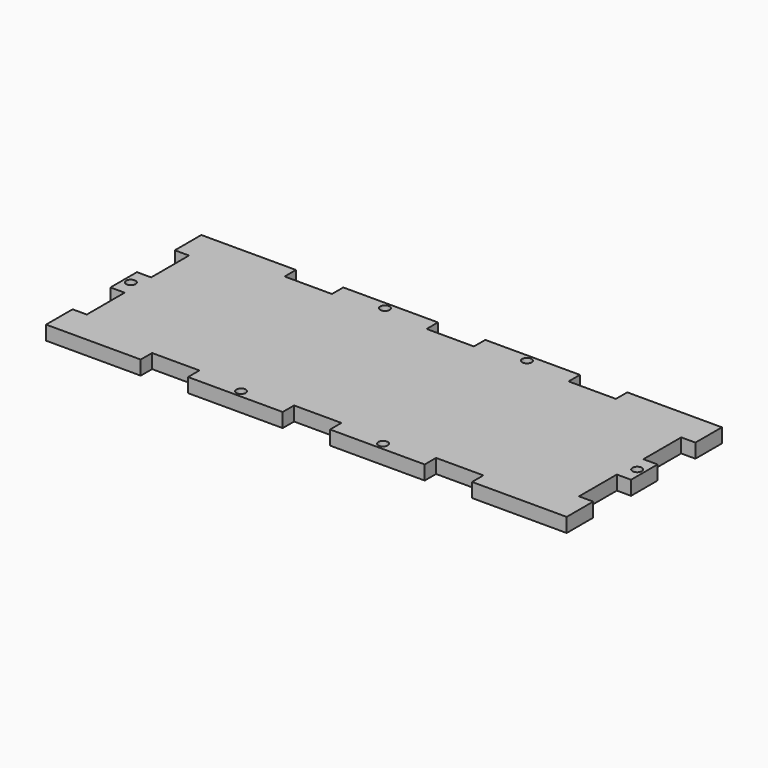
from build123d import *

# Parameters (mm, degrees)
F0_R     = 1
F1_DEPTH = 1.5


with BuildPart() as f1:
    # F0 (on Top) → F1 (new body, symmetric)
    with BuildSketch(Plane.XY):
        Polygon((11.158384, -0.427817), (-8.841616, -0.427817), (-8.841616, -7.427817), (-5.841616, -7.427817), (-5.841616, -17.427817), (-8.841616, -17.427817), (-8.841616, -24.427817), (-5.841616, -24.427817), (-5.841616, -34.427817), (-8.841616, -34.427817), (-8.841616, -41.427817), (11.158384, -41.427817), (11.158384, -38.427817), (21.158384, -38.427817), (21.158384, -41.427817), (41.158384, -41.427817), (41.158384, -38.427817), (51.158384, -38.427817), (51.158384, -41.427817), (71.158384, -41.427817), (71.158384, -38.427817), (81.158384, -38.427817), (81.158384, -41.427817), (101.158384, -41.427817), (101.158384, -34.427817), (98.158384, -34.427817), (98.158384, -24.427817), (101.158384, -24.427817), (101.158384, -17.427817), (98.158384, -17.427817), (98.158384, -7.427817), (101.158384, -7.427817), (101.158384, -0.427817), (81.158384, -0.427817), (81.158384, -3.427817), (71.158384, -3.427817), (71.158384, -0.427817), (51.158384, -0.427817), (51.158384, -3.427817), (41.158384, -3.427817), (41.158384, -0.427817), (21.158384, -0.427817), (21.158384, -3.427817), (11.158384, -3.427817), align=None)
        with Locations((31.158384, -39.927817)):
            Circle(F0_R, mode=Mode.SUBTRACT)
        with Locations((61.158384, -39.927817)):
            Circle(F0_R, mode=Mode.SUBTRACT)
        with Locations((99.658384, -20.927817)):
            Circle(F0_R, mode=Mode.SUBTRACT)
        with Locations((-7.341616, -20.927817)):
            Circle(F0_R, mode=Mode.SUBTRACT)
        with Locations((31.158384, -1.927817)):
            Circle(F0_R, mode=Mode.SUBTRACT)
        with Locations((61.158384, -1.927817)):
            Circle(F0_R, mode=Mode.SUBTRACT)
    extrude(amount=F1_DEPTH, both=True)


solid = f1.part
